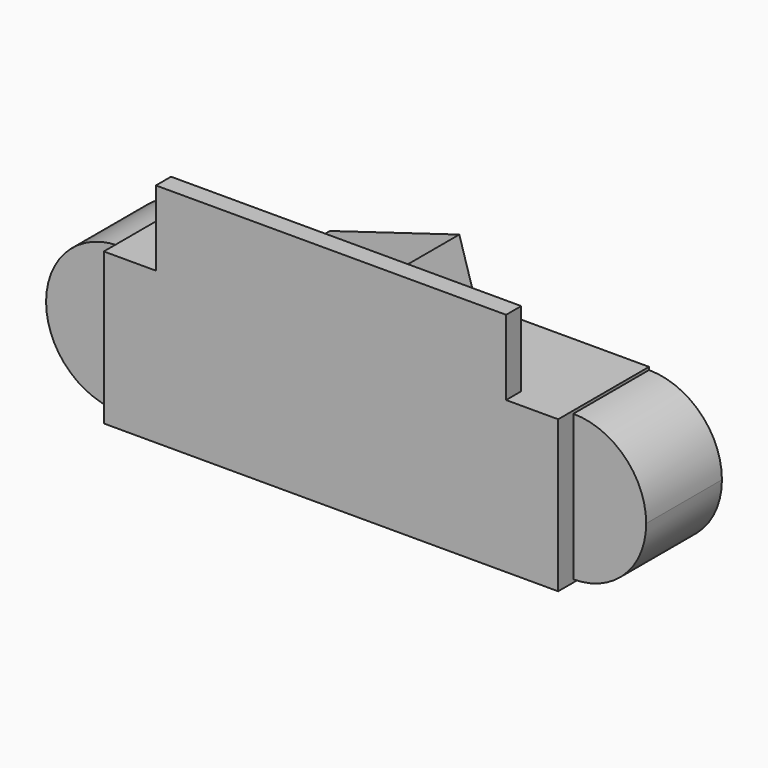
from build123d import *

# Parameters (mm, degrees)
F0_W     = 46.244312
F0_H     = 39.637983
F1_DEPTH = 5
F2_W     = 60
F2_H     = 40
F3_DEPTH = 30
F5_DEPTH = 25
F8_DEPTH = 36


with BuildPart() as f1:
    # F0 (on Front) → F1 (new body)
    with BuildSketch(Plane.XZ):
        with Locations((-23.122156, 19.818991)):
            Rectangle(F0_W, F0_H)
    extrude(amount=F1_DEPTH)

    # F2 (on face) → F3 (join)
    with BuildSketch(Plane.XZ.offset(5)):
        with Locations((-30, -0.181009)):
            Rectangle(F2_W, F2_H)
    extrude(amount=-F3_DEPTH)

    # F4 (on face) → F5 (join)
    with BuildSketch(Plane(origin=(0, 25, 0), x_dir=(-1, 0, 0), z_dir=(0, 1, 0))):
        with BuildLine():
            ThreePointArc((79.248183, -0.181009), (73.610521, 13.429512), (60, 19.067175))
            Line((60, 19.067175), (60, -19.429192))
            ThreePointArc((60, -19.429192), (73.610521, -13.79153), (79.248183, -0.181009))
        make_face()
    extrude(amount=-F5_DEPTH)

    # F6: F1 across plane


with BuildPart() as f1_1:
    add(f1.part)
    add(f1.part.mirror(Plane.YZ))

    # F7 (on face) → F8 (join)
    with BuildSketch(Plane(origin=(0, 25, 0), x_dir=(-1, 0, 0), z_dir=(0, 1, 0))):
        Polygon((11.674208, -13.803926), (53.077161, 0), (18.913604, 10.272454), align=None)
    extrude(amount=F8_DEPTH)


solid = f1_1.part
